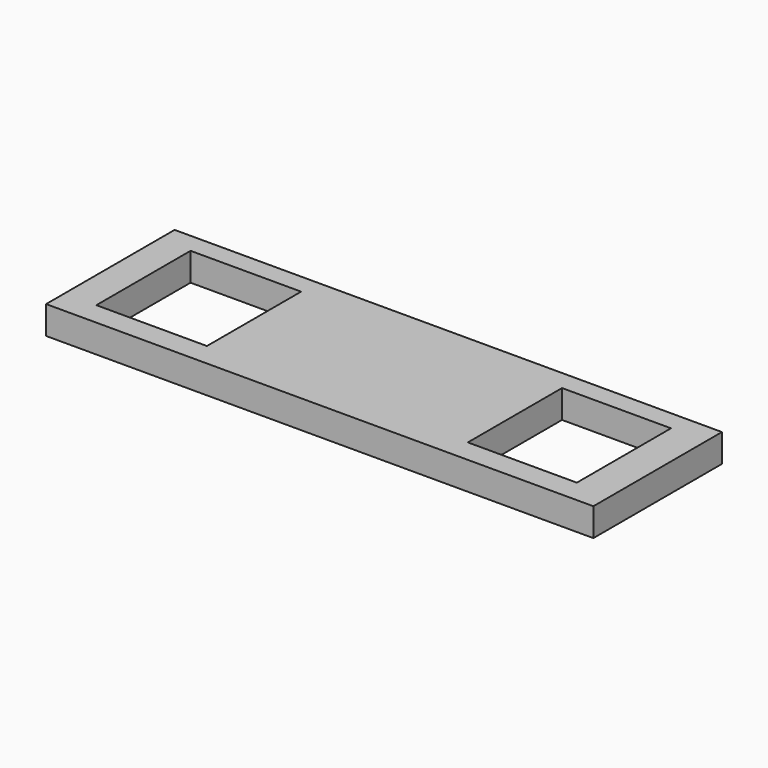
from build123d import *

# Parameters (mm, degrees)
F0_W     = 198.01037
F0_H     = 58.136761
F0_W_2   = 40.004998
F0_H_2   = 42.595252
F0_W_3   = 39.429389
F1_DEPTH = 10.16


with BuildPart() as f1:
    # F0 (on Top) → F1 (new body)
    with BuildSketch(Plane.XY):
        with Locations((0, 5.756114)):
            Rectangle(F0_W, F0_H)
        with Locations((-67.490451, 6.331727)):
            Rectangle(F0_W_2, F0_H_2, mode=Mode.SUBTRACT)
        with Locations((66.627029, 6.331727)):
            Rectangle(F0_W_3, F0_H_2, mode=Mode.SUBTRACT)
    extrude(amount=F1_DEPTH)


solid = f1.part
